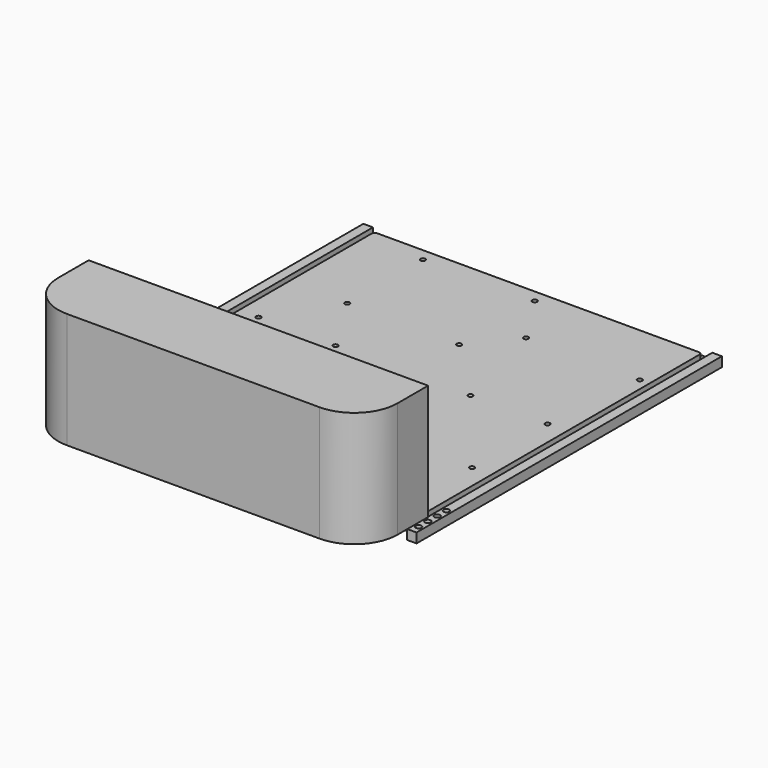
from build123d import *

# Parameters (mm, degrees)
PAD_DEPTH     = 8
SKETCH001_R   = 1.25
HOLE_DEPTH    = 5
HOLE_TIPS_R   = 1.25
PAD001_DEPTH  = 5
SKETCH003_R   = 1.5
HOLE001_DEPTH = 181.501
PAD002_DEPTH  = 5
SKETCH005_W   = 5
SKETCH005_H   = 198
PAD003_DEPTH  = 5
SKETCH006_R   = 1.5
HOLE002_DEPTH = 8.001
PAD004_DEPTH  = 60


with BuildPart() as floor:
    # Sketch → Pad (new body)
    with BuildSketch(Plane.XY):
        with BuildLine():
            Line((0, 0), (170, 0))
            Line((170, 0), (170, 180))
            ThreePointArc((170, 180), (169.56066, 181.06066), (168.5, 181.5))
            Line((168.5, 181.5), (1.5, 181.5))
            ThreePointArc((1.5, 181.5), (0.43934, 181.06066), (0, 180))
            Line((0, 180), (0, 0))
        make_face()
    extrude(amount=-PAD_DEPTH)

    # Sketch001 → Hole (cut)
    with BuildSketch(Plane.XY):
        with Locations((30.5, 175)):
            Circle(SKETCH001_R)
        with Locations((88.5, 175)):
            Circle(SKETCH001_R)
        with Locations((30.5, 126)):
            Circle(SKETCH001_R)
        with Locations((88.5, 126)):
            Circle(SKETCH001_R)
        with Locations((10, 45)):
            Circle(SKETCH001_R)
        with Locations((10, 94)):
            Circle(SKETCH001_R)
        with Locations((50, 94)):
            Circle(SKETCH001_R)
        with Locations((50, 45)):
            Circle(SKETCH001_R)
        with Locations((120, 45)):
            Circle(SKETCH001_R)
        with Locations((160, 45)):
            Circle(SKETCH001_R)
        with Locations((120, 94)):
            Circle(SKETCH001_R)
        with Locations((160, 94)):
            Circle(SKETCH001_R)
        with Locations((106, 147.5)):
            Circle(SKETCH001_R)
        with Locations((165, 147.5)):
            Circle(SKETCH001_R)
    extrude(amount=-HOLE_DEPTH, mode=Mode.SUBTRACT)

    # Hole tips → Hole tip 1 section 0
    with BuildSketch(Plane.XY.offset(-5), mode=Mode.PRIVATE) as hole_tip_1_s0:
        with Locations((30.5, 175)):
            Circle(HOLE_TIPS_R)
    loft([hole_tip_1_s0.sketch, Vertex(30.5, 175, -5.751076)], mode=Mode.SUBTRACT)

    # Hole tips → Hole tip 2 section 0
    with BuildSketch(Plane.XY.offset(-5), mode=Mode.PRIVATE) as hole_tip_2_s0:
        with Locations((88.5, 175)):
            Circle(HOLE_TIPS_R)
    loft([hole_tip_2_s0.sketch, Vertex(88.5, 175, -5.751076)], mode=Mode.SUBTRACT)

    # Hole tips → Hole tip 3 section 0
    with BuildSketch(Plane.XY.offset(-5), mode=Mode.PRIVATE) as hole_tip_3_s0:
        with Locations((30.5, 126)):
            Circle(HOLE_TIPS_R)
    loft([hole_tip_3_s0.sketch, Vertex(30.5, 126, -5.751076)], mode=Mode.SUBTRACT)

    # Hole tips → Hole tip 4 section 0
    with BuildSketch(Plane.XY.offset(-5), mode=Mode.PRIVATE) as hole_tip_4_s0:
        with Locations((88.5, 126)):
            Circle(HOLE_TIPS_R)
    loft([hole_tip_4_s0.sketch, Vertex(88.5, 126, -5.751076)], mode=Mode.SUBTRACT)

    # Hole tips → Hole tip 5 section 0
    with BuildSketch(Plane.XY.offset(-5), mode=Mode.PRIVATE) as hole_tip_5_s0:
        with Locations((10, 45)):
            Circle(HOLE_TIPS_R)
    loft([hole_tip_5_s0.sketch, Vertex(10, 45, -5.751076)], mode=Mode.SUBTRACT)

    # Hole tips → Hole tip 6 section 0
    with BuildSketch(Plane.XY.offset(-5), mode=Mode.PRIVATE) as hole_tip_6_s0:
        with Locations((10, 94)):
            Circle(HOLE_TIPS_R)
    loft([hole_tip_6_s0.sketch, Vertex(10, 94, -5.751076)], mode=Mode.SUBTRACT)

    # Hole tips → Hole tip 7 section 0
    with BuildSketch(Plane.XY.offset(-5), mode=Mode.PRIVATE) as hole_tip_7_s0:
        with Locations((50, 94)):
            Circle(HOLE_TIPS_R)
    loft([hole_tip_7_s0.sketch, Vertex(50, 94, -5.751076)], mode=Mode.SUBTRACT)

    # Hole tips → Hole tip 8 section 0
    with BuildSketch(Plane.XY.offset(-5), mode=Mode.PRIVATE) as hole_tip_8_s0:
        with Locations((50, 45)):
            Circle(HOLE_TIPS_R)
    loft([hole_tip_8_s0.sketch, Vertex(50, 45, -5.751076)], mode=Mode.SUBTRACT)

    # Hole tips → Hole tip 9 section 0
    with BuildSketch(Plane.XY.offset(-5), mode=Mode.PRIVATE) as hole_tip_9_s0:
        with Locations((120, 45)):
            Circle(HOLE_TIPS_R)
    loft([hole_tip_9_s0.sketch, Vertex(120, 45, -5.751076)], mode=Mode.SUBTRACT)

    # Hole tips → Hole tip 10 section 0
    with BuildSketch(Plane.XY.offset(-5), mode=Mode.PRIVATE) as hole_tip_10_s0:
        with Locations((160, 45)):
            Circle(HOLE_TIPS_R)
    loft([hole_tip_10_s0.sketch, Vertex(160, 45, -5.751076)], mode=Mode.SUBTRACT)

    # Hole tips → Hole tip 11 section 0
    with BuildSketch(Plane.XY.offset(-5), mode=Mode.PRIVATE) as hole_tip_11_s0:
        with Locations((120, 94)):
            Circle(HOLE_TIPS_R)
    loft([hole_tip_11_s0.sketch, Vertex(120, 94, -5.751076)], mode=Mode.SUBTRACT)

    # Hole tips → Hole tip 12 section 0
    with BuildSketch(Plane.XY.offset(-5), mode=Mode.PRIVATE) as hole_tip_12_s0:
        with Locations((160, 94)):
            Circle(HOLE_TIPS_R)
    loft([hole_tip_12_s0.sketch, Vertex(160, 94, -5.751076)], mode=Mode.SUBTRACT)

    # Hole tips → Hole tip 13 section 0
    with BuildSketch(Plane.XY.offset(-5), mode=Mode.PRIVATE) as hole_tip_13_s0:
        with Locations((106, 147.5)):
            Circle(HOLE_TIPS_R)
    loft([hole_tip_13_s0.sketch, Vertex(106, 147.5, -5.751076)], mode=Mode.SUBTRACT)

    # Hole tips → Hole tip 14 section 0
    with BuildSketch(Plane.XY.offset(-5), mode=Mode.PRIVATE) as hole_tip_14_s0:
        with Locations((165, 147.5)):
            Circle(HOLE_TIPS_R)
    loft([hole_tip_14_s0.sketch, Vertex(165, 147.5, -5.751076)], mode=Mode.SUBTRACT)

    # Sketch002 → Pad001 (join)
    with BuildSketch(Plane.XZ):
        with BuildLine():
            Line((46.75, 0), (123.25, 0))
            Line((123.25, 0), (123.25, 47.5))
            ThreePointArc((123.25, 47.5), (122.81066, 48.56066), (121.75, 49))
            Line((121.75, 49), (48.25, 49))
            ThreePointArc((48.25, 49), (47.18934, 48.56066), (46.75, 47.5))
            Line((46.75, 47.5), (46.75, 0))
        make_face()
    extrude(amount=-PAD001_DEPTH)

    # Sketch003 → Hole001 (cut, through all)
    with BuildSketch(Plane.XZ):
        with Locations((74, 33)):
            Circle(SKETCH003_R)
        with Locations((96, 33)):
            Circle(SKETCH003_R)
        with Locations((74, 45.5)):
            Circle(SKETCH003_R)
        with Locations((96, 45.5)):
            Circle(SKETCH003_R)
    extrude(amount=-HOLE001_DEPTH, mode=Mode.SUBTRACT)

    # Sketch004 → Pad002 (join)
    with BuildSketch(Plane.XY.offset(-3)):
        with BuildLine():
            Line((-1.5, 184.5), (171.5, 184.5))
            ThreePointArc((173, 183), (172.56066, 184.06066), (171.5, 184.5))
            Line((173, 183), (173, -3))
            Line((173, -3), (-3, -3))
            Line((-3, -3), (-3, 183))
            ThreePointArc((-1.5, 184.5), (-2.56066, 184.06066), (-3, 183))
        make_face()
    extrude(amount=-PAD002_DEPTH)

    # Sketch005 → Pad003 (join)
    with BuildSketch(Plane.XY):
        with Locations((-5.5, 85.5)):
            Rectangle(SKETCH005_W, SKETCH005_H)
        with Locations((175.5, 85.5)):
            Rectangle(SKETCH005_W, SKETCH005_H)
    extrude(amount=-PAD003_DEPTH)

    # Sketch006 → Hole002 (cut, through all)
    with BuildSketch(Plane.XY):
        with Locations((-5.5, -9)):
            Circle(SKETCH006_R)
        with Locations((-5.5, 9)):
            Circle(SKETCH006_R)
        with Locations((-5.5, 3)):
            Circle(SKETCH006_R)
        with Locations((-5.5, -3)):
            Circle(SKETCH006_R)
        with Locations((175.5, -9)):
            Circle(SKETCH006_R)
        with Locations((175.5, -3)):
            Circle(SKETCH006_R)
        with Locations((175.5, 3)):
            Circle(SKETCH006_R)
        with Locations((175.5, 9)):
            Circle(SKETCH006_R)
    extrude(amount=-HOLE002_DEPTH, mode=Mode.SUBTRACT)


with BuildPart() as windscreen:
    # Sketch007 → Pad004 (new body)
    with BuildSketch(Plane.XY):
        with BuildLine():
            Line((-2.89, 0), (173.19, 0))
            Line((173.19, 0), (173.19, -19.74))
            ThreePointArc((150.69, -42.24), (166.599903, -35.649903), (173.19, -19.74))
            Line((150.69, -42.24), (19.61, -42.24))
            ThreePointArc((-2.89, -19.74), (3.700097, -35.649903), (19.61, -42.24))
            Line((-2.89, -19.74), (-2.89, 0))
        make_face()
    extrude(amount=PAD004_DEPTH)


solid = Compound([floor.part, windscreen.part])
